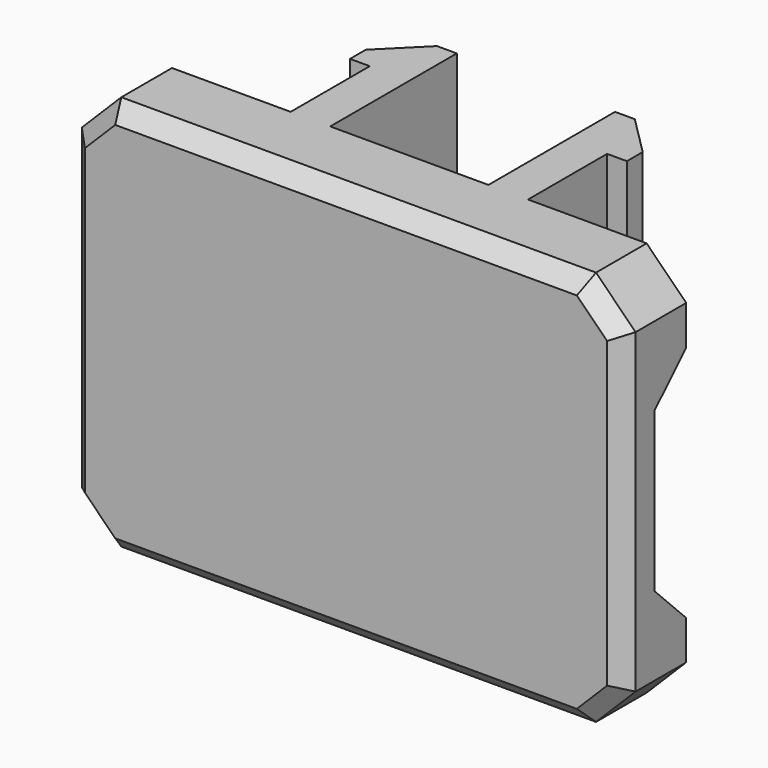
from build123d import *

# Parameters (mm, degrees)
BOX009_W        = 1
BOX009_H        = 2.5
BOX009_DEPTH    = 10
BOX010_W        = 1.5
BOX010_H        = 4
BOX010_DEPTH    = 10
CHAMFER005_SIZE = 1
BOX008_W        = 1
BOX008_H        = 2.5
BOX008_DEPTH    = 10
BOX011_W        = 1.5
BOX011_H        = 4
BOX011_DEPTH    = 10
CHAMFER004_SIZE = 1
BOX014_W        = 7
BOX014_H        = 1
BOX014_DEPTH    = 6
CHAMFER012_SIZE = 0.99
BOX015_W        = 7
BOX015_H        = 1
BOX015_DEPTH    = 6
CHAMFER013_SIZE = 0.99
BOX012_W        = 14
BOX012_H        = 2
BOX012_DEPTH    = 10
CHAMFER014_SIZE = 1
CHAMFER015_SIZE = 0.4


with BuildPart() as cube009:
    # Box009 → Box009 (new body)
    with BuildSketch(Plane(origin=(3, 0, 0), x_dir=(1, 0, 0), z_dir=(0, 0, 1))):
        with Locations((0.5, 1.25)):
            Rectangle(BOX009_W, BOX009_H)
    extrude(amount=BOX009_DEPTH)


with BuildPart() as chamfer005:
    # Box010 → Box010 (new body)
    with BuildSketch(Plane(origin=(2, 0, 0), x_dir=(1, 0, 0), z_dir=(0, 0, 1))):
        with Locations((0.75, 2)):
            Rectangle(BOX010_W, BOX010_H)
    extrude(amount=BOX010_DEPTH)

    # Cut005: cut Cube009
    add(cube009.part, mode=Mode.SUBTRACT)

    # Chamfer005
    chamfer005_edges = [chamfer005.edges().sort_by_distance(p)[0] for p in [
        (3.5, 4, 5),
    ]]
    chamfer(chamfer005_edges, length=CHAMFER005_SIZE)


with BuildPart() as cube008:
    # Box008 → Box008 (new body)
    with BuildSketch(Plane(origin=(-4, 0, 0), x_dir=(1, 0, 0), z_dir=(0, 0, 1))):
        with Locations((0.5, 1.25)):
            Rectangle(BOX008_W, BOX008_H)
    extrude(amount=BOX008_DEPTH)


with BuildPart() as chamfer004:
    # Box011 → Box011 (new body)
    with BuildSketch(Plane(origin=(-3.5, 0, 0), x_dir=(1, 0, 0), z_dir=(0, 0, 1))):
        with Locations((0.75, 2)):
            Rectangle(BOX011_W, BOX011_H)
    extrude(amount=BOX011_DEPTH)

    # Cut004: cut Cube008
    add(cube008.part, mode=Mode.SUBTRACT)

    # Chamfer004
    chamfer004_edges = [chamfer004.edges().sort_by_distance(p)[0] for p in [
        (-3.5, 4, 5),
    ]]
    chamfer(chamfer004_edges, length=CHAMFER004_SIZE)


with BuildPart() as chamfer012:
    # Box014 → Box014 (new body)
    with BuildSketch(Plane(origin=(3, -1, 2), x_dir=(1, 0, 0), z_dir=(0, 0, 1))):
        with Locations((3.5, 0.5)):
            Rectangle(BOX014_W, BOX014_H)
    extrude(amount=BOX014_DEPTH)

    # Chamfer012
    chamfer012_edges = [chamfer012.edges().sort_by_distance(p)[0] for p in [
        (3, -1, 5),
        (3, -0.5, 8),
        (3, -0.5, 2),
        (6.5, -1, 2),
        (6.5, -1, 8),
    ]]
    chamfer(chamfer012_edges, length=CHAMFER012_SIZE)


with BuildPart() as fusion004:
    # Box015 → Box015 (new body)
    with BuildSketch(Plane(origin=(-10, -1, 2), x_dir=(1, 0, 0), z_dir=(0, 0, 1))):
        with Locations((3.5, 0.5)):
            Rectangle(BOX015_W, BOX015_H)
    extrude(amount=BOX015_DEPTH)

    # Chamfer013
    chamfer013_edges = [fusion004.edges().sort_by_distance(p)[0] for p in [
        (-3, -1, 5),
        (-3, -0.5, 8),
        (-3, -0.5, 2),
        (-6.5, -1, 8),
    ]]
    chamfer(chamfer013_edges, length=CHAMFER013_SIZE)

    # Fusion004: union Chamfer012
    add(chamfer012.part)


with BuildPart() as cable_rail_cap_r1:
    # Box012 → Box012 (new body)
    with BuildSketch(Plane(origin=(-7, -2, 0), x_dir=(1, 0, 0), z_dir=(0, 0, 1))):
        with Locations((7, 1)):
            Rectangle(BOX012_W, BOX012_H)
    extrude(amount=BOX012_DEPTH)

    # Cut010: cut Fusion004
    add(fusion004.part, mode=Mode.SUBTRACT)

    # Fusion005: union Chamfer005, Chamfer004
    add(chamfer005.part)
    add(chamfer004.part)

    # Chamfer014
    chamfer014_edges = [cable_rail_cap_r1.edges().sort_by_distance(p)[0] for p in [
        (-7, -1, 10),
        (-7, -1, 0),
        (7, -1, 10),
        (7, -1, 0),
    ]]
    chamfer(chamfer014_edges, length=CHAMFER014_SIZE)

    # Chamfer015
    chamfer015_edges = [cable_rail_cap_r1.edges().sort_by_distance(p)[0] for p in [
        (-7, -2, 5),
        (-6.5, -2, 9.5),
        (0, -2, 0),
        (-6.5, -2, 0.5),
        (6.5, -2, 0.5),
        (7, -2, 5),
        (6.5, -2, 9.5),
        (0, -2, 10),
    ]]
    chamfer(chamfer015_edges, length=CHAMFER015_SIZE)


solid = cable_rail_cap_r1.part
